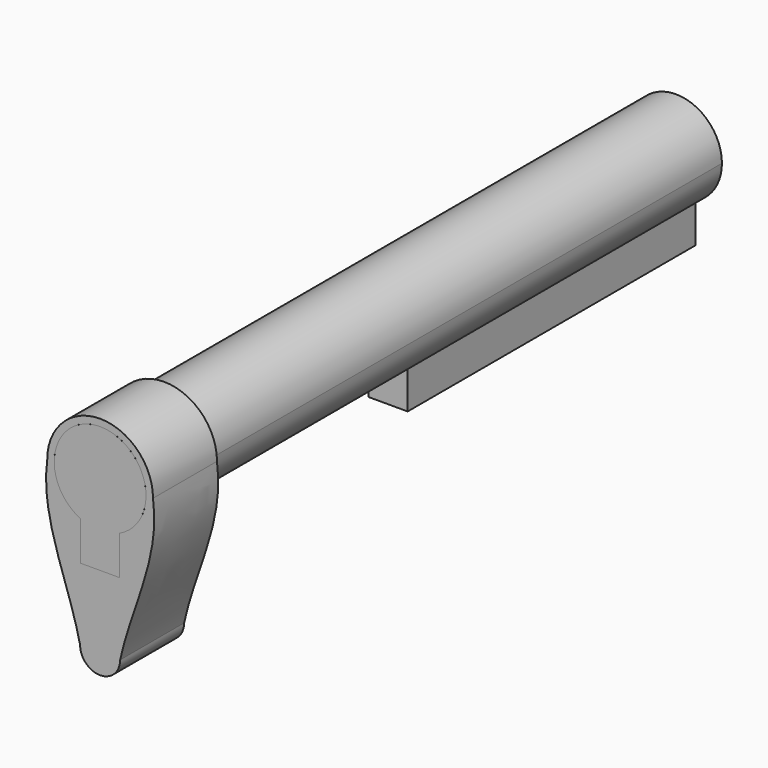
from build123d import *

# Parameters (mm, degrees)
F1_DEPTH = 228.6
F3_DEPTH = 25.4
F5_D     = 8.4328
F5_DEPTH = 12.7
F5_TIP   = 2.5334687141
F6_W     = 86.9818604708
F6_H     = 12.446
F7_DEPTH = 23.4055951238


with BuildPart() as f1:
    # F0 (on Front) → F1 (new body)
    with BuildSketch(Plane.XZ):
        with BuildLine():
            ThreePointArc((6.223, 3.5860395744), (12.3144952588, 8.9658469761), (14.5796, 16.7708417026))
            ThreePointArc((14.5796, 16.7708417026), (-7.8049947265, 29.0853369614), (-6.223, 3.5860395744))
            ThreePointArc((-6.223, 3.5860395744), (0, 2.1912417026), (6.223, 3.5860395744))
        make_face()
        with BuildLine():
            ThreePointArc((6.223, 3.5860395744), (0, 2.1912417026), (-6.223, 3.5860395744))
            Line((-6.223, 3.5860395744), (-6.223, -8.8599604256))
            Line((-6.223, -8.8599604256), (6.223, -8.8599604256))
            Line((6.223, -8.8599604256), (6.223, 3.5860395744))
        make_face()
    extrude(amount=F1_DEPTH)

    # F5
    with Locations(Plane(origin=(0, 0, -8.8599604256), x_dir=(1, 0, 0), z_dir=(0, 0, -1))):
        with Locations((-0.1733420359, 5.5271118879), (-0.1733420359, 22.4931549281), (-0.1733420359, 45.0370769948), (-0.1733420359, 70.3699413687), (-0.1733420359, 91.286977008)):
            Hole(F5_D / 2, depth=F5_DEPTH)
            with Locations((0, 0, -(F5_DEPTH + F5_TIP / 2))):  # 118° drill point
                Cone(0, F5_D / 2, F5_TIP, mode=Mode.SUBTRACT)

    # F6 (on face) → F7 (cut, through all)
    with BuildSketch(Plane(origin=(-6.223, 0, 0), x_dir=(0, -1, 0), z_dir=(-1, 0, 0))):
        with Locations((157.7909302354, -2.6369604256)):
            Rectangle(F6_W, F6_H)
    extrude(amount=-F7_DEPTH, mode=Mode.SUBTRACT)


with BuildPart() as f3:
    # F2 (on face) → F3 (new body)
    with BuildSketch(Plane.XZ.offset(228.6)):
        with BuildLine():
            add(Edge.make_bspline(
                [(16.7897885729, 16.7708417026), (19.2017462105, 0), (9.8299295243, -15.6185322256), (6.35, -31.8132191896)],
                knots=[0, 0, 0, 0, 49.6930594573, 49.6930594573, 49.6930594573, 49.6930594573], degree=3))
            ThreePointArc((16.7897885729, 16.7708417026), (13.8992779419, 7.3523984651), (6.223, 1.1768918718))
            Line((6.223, 1.1768918718), (6.223, -8.8599604256))
            Line((6.223, -8.8599604256), (-6.223, -8.8599604256))
            Line((-6.223, -8.8599604256), (-6.223, 1.1768918718))
            ThreePointArc((-6.223, 1.1768918718), (-13.8992779419, 7.3523984651), (-16.7897885729, 16.7708417026))
            add(Edge.make_bspline(
                [(-16.7897885729, 16.7708417026), (-19.2017462105, 0), (-9.8299295243, -15.6185322256), (-6.35, -31.8132191896)],
                knots=[0, 0, 0, 0, 49.6930594573, 49.6930594573, 49.6930594573, 49.6930594573], degree=3))
            ThreePointArc((-6.35, -31.8132191896), (0, -25.4632191896), (6.35, -31.8132191896))
        make_face()
        with BuildLine():
            ThreePointArc((-6.35, -31.8132191896), (0, -38.1632191896), (6.35, -31.8132191896))
            ThreePointArc((6.35, -31.8132191896), (0, -25.4632191896), (-6.35, -31.8132191896))
        make_face()
        with BuildLine():
            ThreePointArc((6.223, 1.1768918718), (13.8992779419, 7.3523984651), (16.7897885729, 16.7708417026))
            ThreePointArc((16.7897885729, 16.7708417026), (0, 33.5606302755), (-16.7897885729, 16.7708417026))
            ThreePointArc((-16.7897885729, 16.7708417026), (-13.8992779419, 7.3523984651), (-6.223, 1.1768918718))
            Line((-6.223, 1.1768918718), (-6.223, 3.5860395744))
            ThreePointArc((-6.223, 3.5860395744), (0, 31.3504417026), (6.223, 3.5860395744))
            Line((6.223, 3.5860395744), (6.223, 1.1768918718))
        make_face()
    extrude(amount=-F3_DEPTH)


solid = Compound([f1.part, f3.part])
